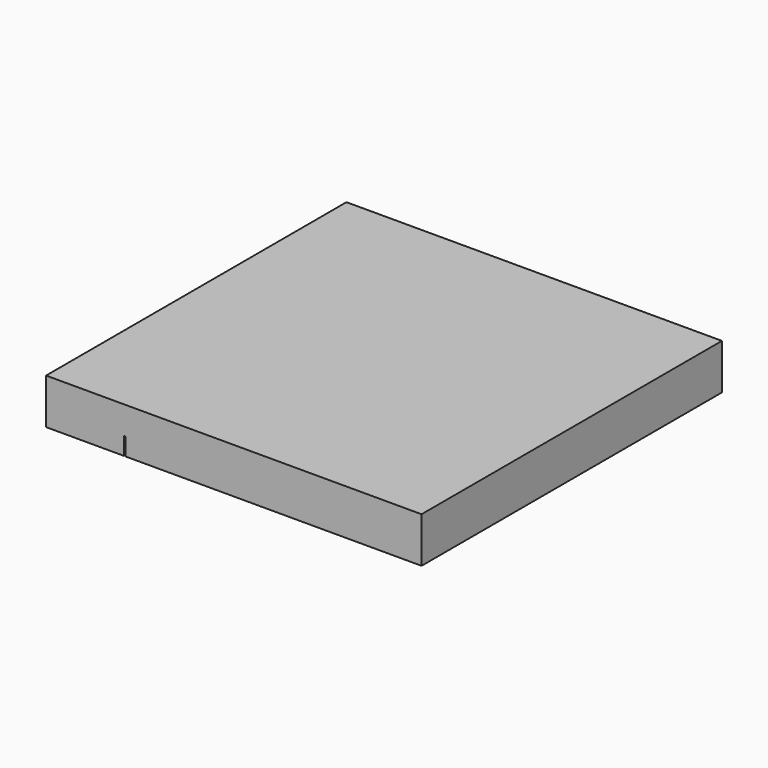
from build123d import *

# Parameters (mm, degrees)
F0_W     = 1000
F0_H     = 120.975018
F2_DEPTH = 1000
F1_W     = 4.91416
F1_H     = 44.66103
F3_DEPTH = 1000


with BuildPart() as f2:
    # F0 (on Front) → F2 (new body)
    with BuildSketch(Plane.XZ):
        with Locations((292.73814, 60.487509)):
            Rectangle(F0_W, F0_H)
    extrude(amount=F2_DEPTH)

    # F1 (on Front) → F3 (cut)
    with BuildSketch(Plane.XZ):
        with Locations((2.45708, 22.330515)):
            Rectangle(F1_W, F1_H)
        with BuildLine():
            Line((0, 44.66103), (4.91416, 44.66103))
            ThreePointArc((4.91416, 44.66103), (2.45708, 47.11811), (0, 44.66103))
        make_face()
    extrude(amount=F3_DEPTH, mode=Mode.SUBTRACT)


solid = f2.part
